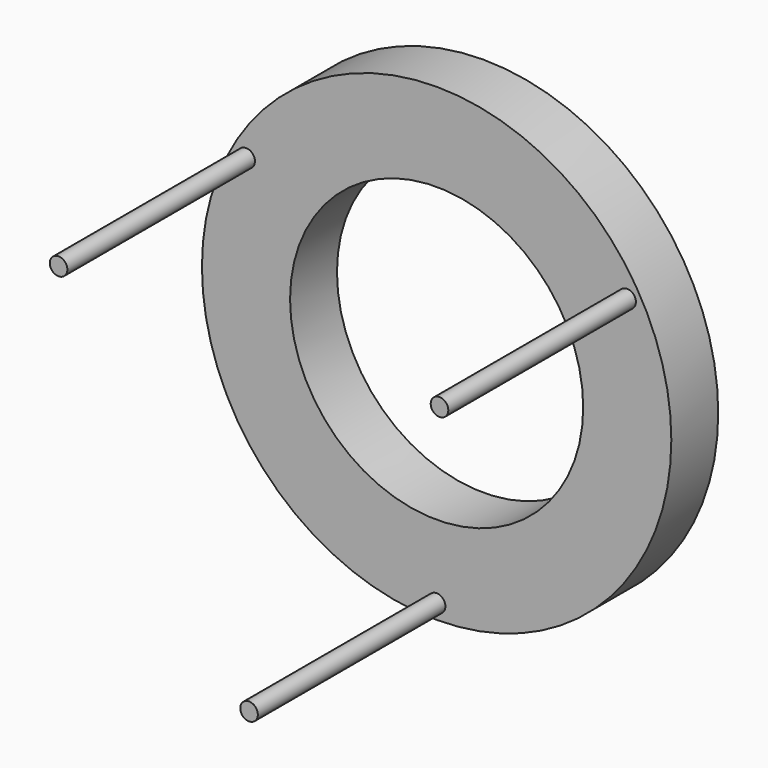
from build123d import *

# Parameters (mm, degrees)
F0_R     = 50.842383
F0_R_2   = 1.905
F0_R_3   = 31.75
F1_DEPTH = 12.7
F2_DEPTH = 63.5


with BuildPart() as f1:
    # F0 (on Front) → F1 (new body)
    with BuildSketch(Plane.XZ):
        with Locations((-61.314686, 0.139674)):
            Circle(F0_R)
        with Locations((-61.314686, -47.506517)):
            Circle(F0_R_2, mode=Mode.SUBTRACT)
        with Locations((-61.314686, 0.139674)):
            Circle(F0_R_3, mode=Mode.SUBTRACT)
        with Locations((-102.577499, 23.96277)):
            Circle(F0_R_2, mode=Mode.SUBTRACT)
        with Locations((-20.051874, 23.96277)):
            Circle(F0_R_2, mode=Mode.SUBTRACT)
    extrude(amount=F1_DEPTH)

    # F0 (on Front) → F2 (join)
    with BuildSketch(Plane.XZ):
        with Locations((-102.577499, 23.96277)):
            Circle(F0_R_2)
        with Locations((-20.051874, 23.96277)):
            Circle(F0_R_2)
        with Locations((-61.314686, -47.506517)):
            Circle(F0_R_2)
    extrude(amount=F2_DEPTH)


solid = f1.part
